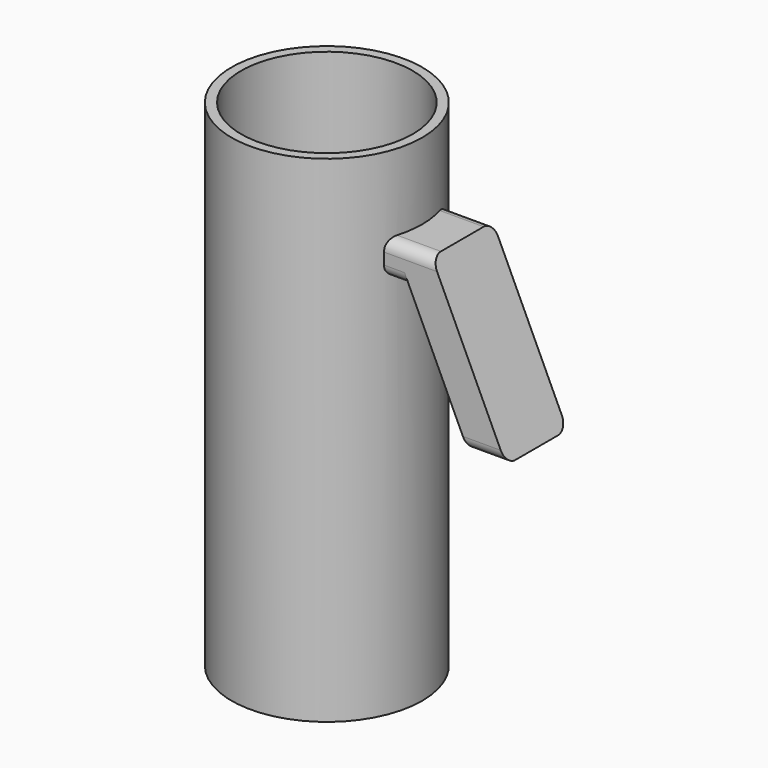
from build123d import *

# Parameters (mm, degrees)
F0_W      = 2.54
F0_H      = 11.43
F2_DEPTH  = 12.7
F3_R      = 3.81
F4_R      = 28.575
F5_DEPTH  = 76.2
F5_FACE_R = 28.575
F6_DEPTH  = 78.74


with BuildPart() as f1:
    # F0 (on Front) → F1 (revolve)
    with BuildSketch(Plane.XZ):
        Polygon((31.75, 0), (0, 0), (0, -165.1), (31.75, -165.1), (31.75, -36.83), (29.21, -36.83), (29.21, -25.4), (31.75, -25.4), align=None)
        with Locations((30.48, -31.115)):
            Rectangle(F0_W, F0_H)
    revolve(axis=Axis((0, 0, -82.55), (0, 0, -1)))

    # F0 (on Front) → F2 (join, symmetric)
    with BuildSketch(Plane.XZ):
        Polygon((45.085, -25.4), (31.75, -25.4), (31.75, -36.83), (37.803287, -36.83), (57.23839, -78.508714), (69.85, -78.508714), align=None)
        with Locations((30.48, -31.115)):
            Rectangle(F0_W, F0_H)
    extrude(amount=F2_DEPTH, both=True)

    # F3
    f3_edges = [f1.edges().sort_by_distance(p)[0] for p in [
        (37.1475, -12.7, -25.4),
        (37.1475, 12.7, -25.4),
        (33.506643, 12.7, -36.83),
        (33.506643, -12.7, -36.83),
        (63.544195, -12.7, -78.508714),
        (63.544195, 12.7, -78.508714),
    ]]
    fillet(f3_edges, radius=F3_R)

    # F4 (on face) → F5 (cut)
    with BuildSketch(Plane.XY):
        Circle(F4_R)
    extrude(amount=-F5_DEPTH, mode=Mode.SUBTRACT)

    # F5_face (on face) → F6 (cut)
    with BuildSketch(Plane.XY.offset(-76.2)):
        Circle(F5_FACE_R)
    extrude(amount=-F6_DEPTH, mode=Mode.SUBTRACT)


solid = f1.part
